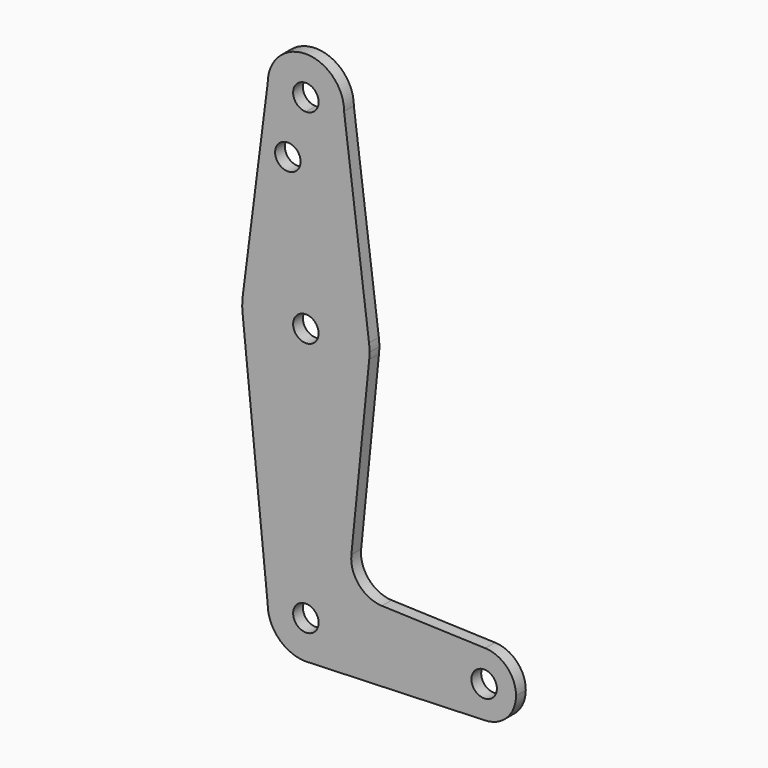
from build123d import *

# Parameters (mm, degrees)
F0_R     = 3.175
F1_DEPTH = 3.048


with BuildPart() as f1:
    # F0 (on Front) → F1 (new body)
    with BuildSketch(Plane.XZ):
        with BuildLine():
            ThreePointArc((-9.525, 114.3), (-6.7351920908, 107.5648079092), (0, 104.775))
            ThreePointArc((0, 104.775), (6.7351920908, 107.5648079092), (9.525, 114.3))
            ThreePointArc((9.525, 114.3), (0, 123.825), (-9.525, 114.3))
        make_face()
        with BuildLine():
            ThreePointArc((3.175, 114.3), (2.2450640303, 112.0549359697), (0, 111.125))
            ThreePointArc((0, 111.125), (-2.2450640303, 116.5450640303), (3.175, 114.3))
        make_face(mode=Mode.SUBTRACT)
        with BuildLine():
            ThreePointArc((9.525, 114.3), (6.7351920908, 107.5648079092), (0, 104.775))
            ThreePointArc((0, 104.775), (-6.7351920908, 107.5648079092), (-9.525, 114.3))
            Line((-9.525, 114.3), (-15.7474569047, 65.5082893304))
            ThreePointArc((-15.7474569047, 65.5082893304), (0, 79.375), (15.7474569047, 65.5082893304))
            Line((15.7474569047, 65.5082893304), (9.525, 114.3))
        make_face()
        with Locations((-4.4956586918, 99.7474728494)):
            Circle(F0_R, mode=Mode.SUBTRACT)
        with BuildLine():
            ThreePointArc((15.7474569047, 65.5082893304), (0, 79.375), (-15.7474569047, 65.5082893304))
            ThreePointArc((-15.7474569047, 65.5082893304), (-15.873667691, 63.7056672947), (-15.7942028036, 61.9003804205))
            ThreePointArc((-15.7942028036, 61.9003804205), (0, 47.625), (15.7942028036, 61.9003804205))
            ThreePointArc((15.7942028036, 61.9003804205), (15.8547878338, 62.6991705884), (15.875, 63.5))
            ThreePointArc((15.875, 63.5), (15.8430821396, 64.5061676396), (15.7474569047, 65.5082893304))
        make_face()
        with Locations((0, 63.5)):
            Circle(F0_R, mode=Mode.SUBTRACT)
        with BuildLine():
            ThreePointArc((15.7942028036, 61.9003804205), (0, 47.625), (-15.7942028036, 61.9003804205))
            Line((-15.7942028036, 61.9003804205), (-9.525, 0))
            ThreePointArc((-9.525, 0), (-6.7351920908, 6.7351920908), (0, 9.525))
            ThreePointArc((0, 9.525), (6.7351920908, 6.7351920908), (9.525, 0))
            ThreePointArc((9.525, 0), (6.9705567315, -6.4912990883), (0.6773435479, -9.500885786))
            Line((0.6773435479, -9.500885786), (44.7324052746, -7.9324746146))
            ThreePointArc((44.7324052746, -7.9324746146), (36.5125, 0), (44.7324052746, 7.9324746146))
            Line((44.7324052746, 7.9324746146), (18.9683264873, 8.8497056297))
            ThreePointArc((18.9683264873, 8.8497056297), (13.2612027952, 11.5674627234), (11.340834429, 17.5898916185))
            Line((11.340834429, 17.5898916185), (15.7942028036, 61.9003804205))
        make_face()
        with BuildLine():
            ThreePointArc((0, 9.525), (-6.7351920908, 6.7351920908), (-9.525, 0))
            ThreePointArc((-9.525, 0), (-6.7351920908, -6.7351920908), (0, -9.525))
            Line((0, -9.525), (0.6773435479, -9.500885786))
            ThreePointArc((0.6773435479, -9.500885786), (6.9705567315, -6.4912990883), (9.525, 0))
            ThreePointArc((9.525, 0), (6.7351920908, 6.7351920908), (0, 9.525))
        make_face()
        with BuildLine():
            ThreePointArc((3.175, 0), (-2.2450640303, -2.2450640303), (0, 3.175))
            ThreePointArc((0, 3.175), (2.2450640303, 2.2450640303), (3.175, 0))
        make_face(mode=Mode.SUBTRACT)
        with BuildLine():
            Line((0.6773435479, -9.500885786), (0, -9.525))
            ThreePointArc((0, -9.525), (0.3388863295, -9.5189695375), (0.6773435479, -9.500885786))
        make_face()
        with BuildLine():
            ThreePointArc((52.3875, 0), (50.1616327839, 5.5119104847), (44.7324052746, 7.9324746146))
            ThreePointArc((44.7324052746, 7.9324746146), (36.5125, 0), (44.7324052746, -7.9324746146))
            ThreePointArc((44.7324052746, -7.9324746146), (50.1616327839, -5.5119104847), (52.3875, 0))
        make_face()
        with Locations((44.45, 0)):
            Circle(F0_R, mode=Mode.SUBTRACT)
    extrude(amount=F1_DEPTH)


solid = f1.part
